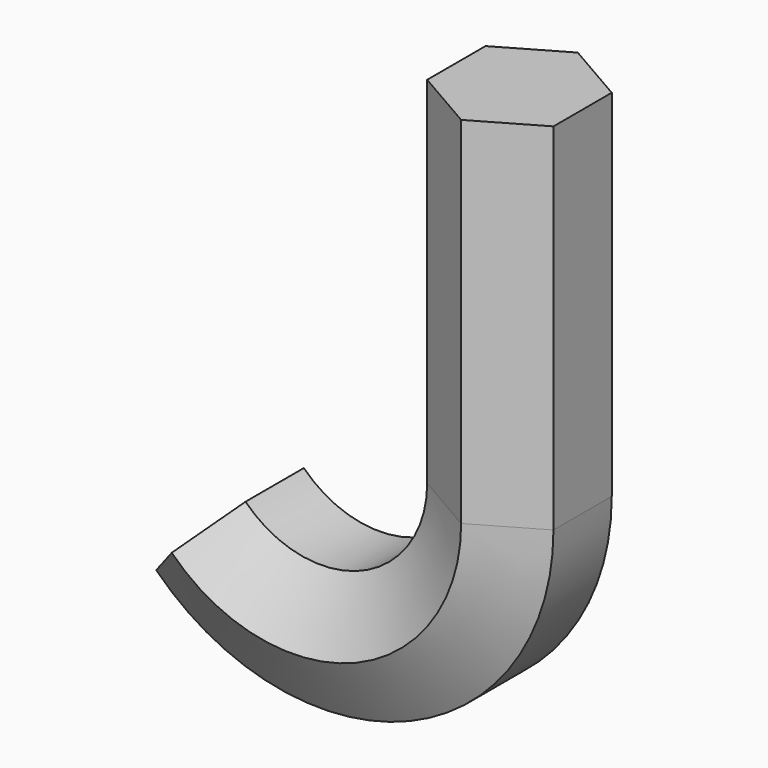
from build123d import *


with BuildPart() as f2:
    # F2: sweep along a path in F0
    with BuildLine(Plane.XZ) as f2_path:
        Line((0, 0), (0, -24.370959))
        ThreePointArc((0, -24.370959), (-7.179451, -35.115767), (-19.853817, -32.594679))
    # F1 (on Top) → F2 (sweep)
    with BuildSketch(Plane.XY):
        Polygon((-4.330127, -2.5), (0, -5), (4.330127, -2.5), (4.330127, 2.5), (0, 5), (-4.330127, 2.5), align=None)
    sweep(path=f2_path.line)


solid = f2.part
